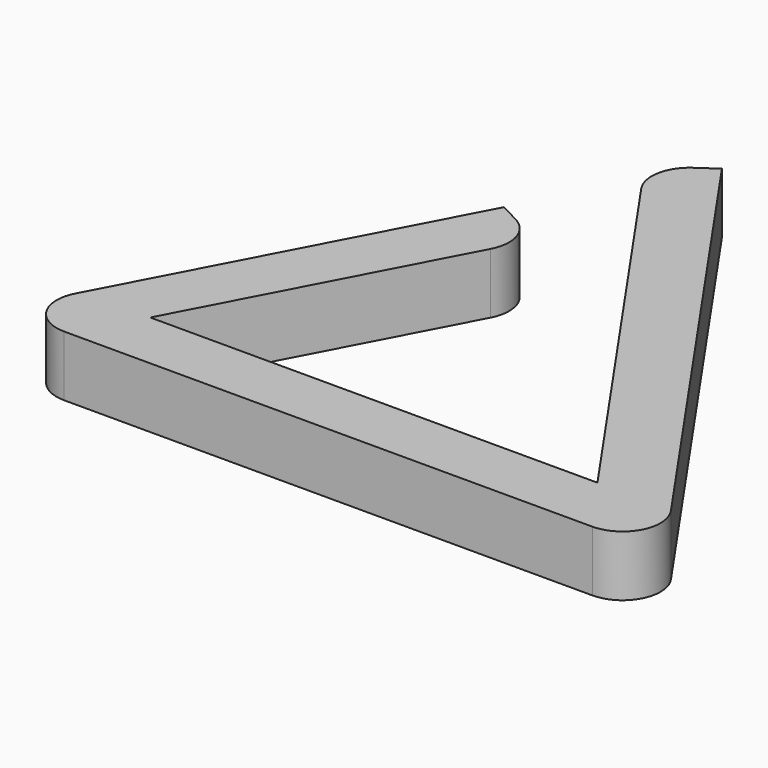
from build123d import *

# Parameters (mm, degrees)
F1_DEPTH = 8


with BuildPart() as f1:
    # F0 (on Top) → F1 (new body)
    with BuildSketch(Plane.XY):
        with BuildLine():
            ThreePointArc((-34.683963, -18.200688), (-34.539773, -23.113636), (-30.259372, -25.52942))
            Line((-30.259372, -25.52942), (39.533916, -25.52942))
            ThreePointArc((39.533916, -25.52942), (43.963373, -22.848883), (43.6435, -17.681383))
            Line((43.6435, -17.681383), (0, 45.29414))
            Line((0, 45.29414), (-2.465751, 43.585317))
            ThreePointArc((-2.465751, 43.585317), (-4.537495, 40.367781), (-3.727297, 36.627695))
            Line((-3.727297, 36.627695), (33.804842, -17.52942))
            Line((33.804842, -17.52942), (-25.290281, -17.52942))
            Line((-25.290281, -17.52942), (-7.437625, 16.390627))
            ThreePointArc((-7.437625, 16.390627), (-7.086896, 20.201356), (-9.533484, 23.143951))
            Line((-9.533484, 23.143951), (-12.188239, 24.54119))
            Line((-12.188239, 24.54119), (-34.683963, -18.200688))
        make_face()
    extrude(amount=F1_DEPTH)


solid = f1.part
